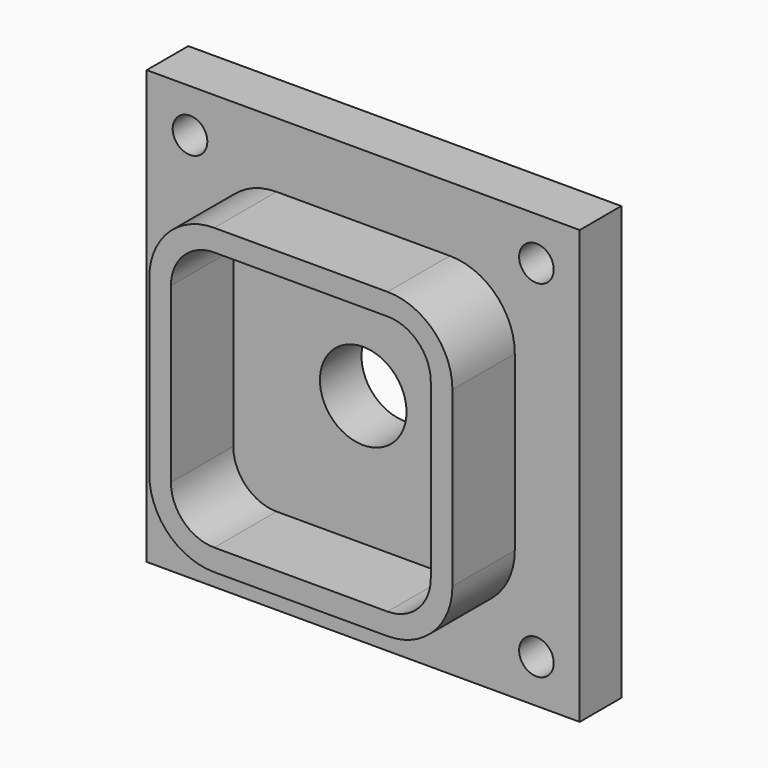
from build123d import *

# Parameters (mm, degrees)
F0_W     = 100
F0_H     = 100
F1_DEPTH = 12
F2_R     = 4
F3_DEPTH = 25
F4_R     = 10
F5_DEPTH = 25
F8_DEPTH = 18
F9_DEPTH = 25


with BuildPart() as f1:
    # F0 (on Front) → F1 (new body)
    with BuildSketch(Plane.XZ):
        with Locations((-50, 50)):
            Rectangle(F0_W, F0_H)
    extrude(amount=F1_DEPTH)

    # F2 (on face) → F3 (cut)
    with BuildSketch(Plane.XZ.offset(12)):
        with Locations((-90, 90)):
            Circle(F2_R)
        with Locations((-10, 90)):
            Circle(F2_R)
        with Locations((-90, 10)):
            Circle(F2_R)
        with Locations((-10, 10)):
            Circle(F2_R)
    extrude(amount=-F3_DEPTH, mode=Mode.SUBTRACT)

    # F4 (on face) → F5 (cut)
    with BuildSketch(Plane.XZ.offset(12)):
        with Locations((-50, 50)):
            Circle(F4_R)
    extrude(amount=-F5_DEPTH, mode=Mode.SUBTRACT)

    # F6 (on face) → F8 (join)
    with BuildSketch(Plane.XZ.offset(12)):
        with BuildLine():
            ThreePointArc((-70, 85), (-80.606602, 80.606602), (-85, 70))
            Line((-85, 70), (-85, 30))
            ThreePointArc((-85, 30), (-80.606602, 19.393398), (-70, 15))
            Line((-70, 15), (-30, 15))
            ThreePointArc((-30, 15), (-19.393398, 19.393398), (-15, 30))
            Line((-15, 30), (-15, 70))
            ThreePointArc((-15, 70), (-19.393398, 80.606602), (-30, 85))
            Line((-30, 85), (-70, 85))
        make_face()
    extrude(amount=F8_DEPTH)

    # F7 (on face) → F9 (cut)
    with BuildSketch(Plane.XZ.offset(12)):
        with BuildLine():
            Line((-30, 80), (-70, 80))
            ThreePointArc((-70, 80), (-77.071068, 77.071068), (-80, 70))
            Line((-80, 70), (-80, 30))
            ThreePointArc((-80, 30), (-77.071068, 22.928932), (-70, 20))
            Line((-70, 20), (-30, 20))
            ThreePointArc((-30, 20), (-22.928932, 22.928932), (-20, 30))
            Line((-20, 30), (-20, 70))
            ThreePointArc((-20, 70), (-22.928932, 77.071068), (-30, 80))
        make_face()
    extrude(amount=F9_DEPTH, mode=Mode.SUBTRACT)


solid = f1.part
